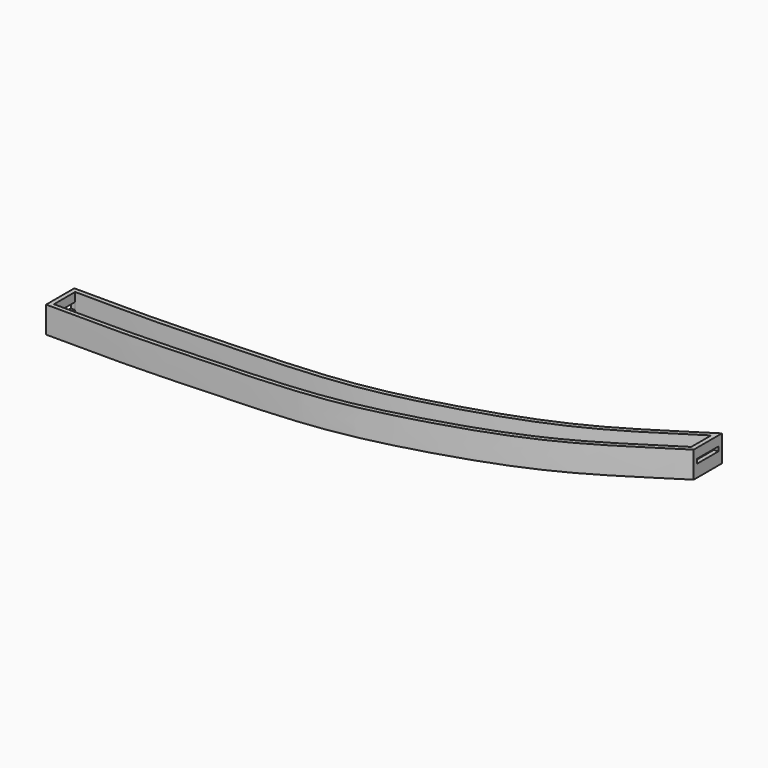
from build123d import *

# Parameters (mm, degrees)
F1_DEPTH = 15
F2_T     = -2.5
F3_W     = 15
F3_H     = 4
F4_DEPTH = 2.5
F5_W     = 15
F5_H     = 2.5
F6_DEPTH = 2.5


with BuildPart() as f1:
    # F0 (on Top) → F1 (new body)
    with BuildSketch(Plane.XY):
        with BuildLine():
            add(Edge.make_bspline(
                [(0, 20), (18.4547170081, 19.8746186243), (49.1586302486, 19.6363824376), (81.651485284, 21.3203627116), (144.6164509178, 23.4125982049), (191.7138925015, 33.5667046191), (257.8451763383, 54.7310576595), (293.6638137306, 79.7551524216), (310.8, 90.5)],
                knots=[0, 0, 0, 0, 0.159543607, 0.2905166174, 0.4681043654, 0.6298325102, 0.8176597752, 1, 1, 1, 1], degree=3))
            Line((0, 20), (0, 0))
            add(Edge.make_bspline(
                [(0, 0), (18.4547170081, -0.1253813757), (49.1586302486, -0.3636175624), (81.651485284, 1.3203627116), (144.6164509178, 3.4125982049), (191.7138925015, 13.5667046191), (257.8451763383, 34.7310576595), (293.6638137306, 59.7551524216), (310.8, 70.5)],
                knots=[0, 0, 0, 0, 0.159543607, 0.2905166174, 0.4681043654, 0.6298325102, 0.8176597752, 1, 1, 1, 1], degree=3))
            Line((310.8, 70.5), (310.8, 90.5))
        make_face()
    extrude(amount=F1_DEPTH)

    # F2
    f2_openings = [f1.faces().sort_by_distance(p)[0] for p in [
        (162.825516, 24.515519, 15),
    ]]
    offset(amount=F2_T, openings=f2_openings, kind=Kind.INTERSECTION)

    # F3 (on face) → F4 (cut, through all)
    with BuildSketch(Plane(origin=(0, 0, 0), x_dir=(0, -1, 0), z_dir=(-1, 0, 0))):
        with Locations((-10, 8)):
            Rectangle(F3_W, F3_H)
    extrude(amount=-F4_DEPTH, mode=Mode.SUBTRACT)

    # F5 (on face) → F6 (cut, through all)
    with BuildSketch(Plane.YZ.offset(310.8)):
        with Locations((80.5, 8.25)):
            Rectangle(F5_W, F5_H)
    extrude(amount=-F6_DEPTH, mode=Mode.SUBTRACT)


solid = f1.part
